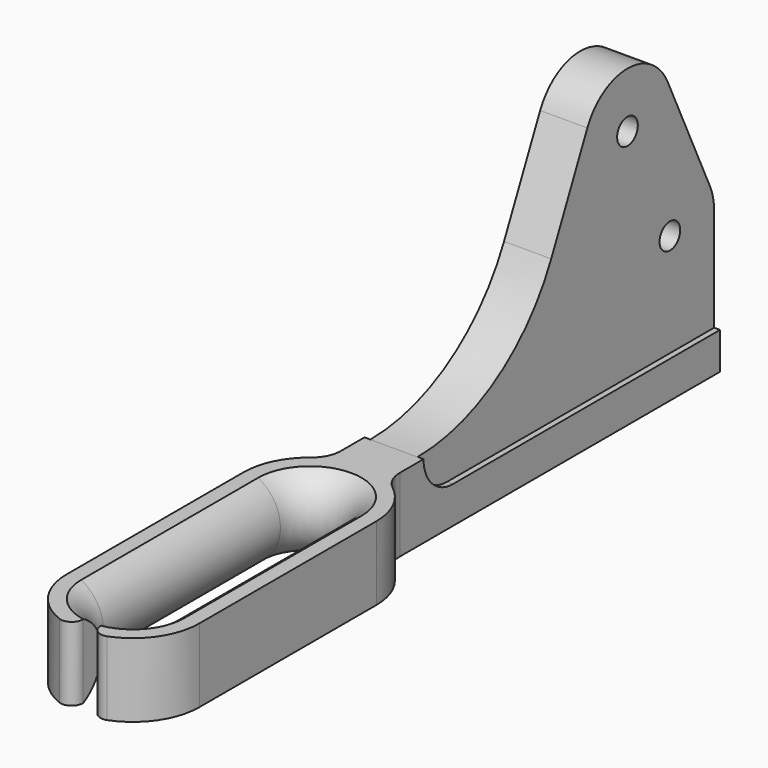
from build123d import *

# Parameters (mm, degrees)
F1_DEPTH       = 45
F3_DEPTH       = 9.001
F3_DEPTH_BACK  = 9.001
F5_DEPTH       = 50.25
F6_R           = 5
F8_D           = 3.5
F11_DEPTH      = 15
F11_DEPTH_BACK = 15
F13_ANGLE      = 180
F15_ANGLE      = 180
F17_DEPTH      = 10
F18_R          = 1.5


with BuildPart() as f1:
    # F0 (on Top) → F1 (new body)
    with BuildSketch(Plane.XY):
        with BuildLine():
            Line((-9, 15), (-9, -15))
            ThreePointArc((-9, -15), (0, -24), (9, -15))
            Line((9, -15), (9, 15))
            ThreePointArc((9, 15), (8.0884533085, 18.9467610869), (5.5384615385, 22.094042838))
            ThreePointArc((5.5384615385, 22.094042838), (4.4051318629, 23.4928347273), (4, 25.246950766))
            Line((4, 25.246950766), (4, 85))
            Line((4, 85), (-4, 85))
            Line((-4, 85), (-4, 25.246950766))
            ThreePointArc((-4, 25.246950766), (-4.4051318629, 23.4928347273), (-5.5384615385, 22.094042838))
            ThreePointArc((-5.5384615385, 22.094042838), (-8.0884533085, 18.9467610869), (-9, 15))
        make_face()
    extrude(amount=F1_DEPTH)

    # F2 (on Right) → F3 (cut, two sides)
    with BuildSketch(Plane.YZ) as f3_sk:
        with BuildLine():
            Line((-27.897214517, 46.3444851339), (-27.897214517, 10))
            Line((-27.897214517, 10), (29.232119265, 10))
            ThreePointArc((29.232119265, 10), (42.6646094737, 13.9152138547), (51.8898139409, 24.4345434565))
            Line((51.8898139409, 24.4345434565), (58.0181811476, 37.5768693427))
            ThreePointArc((58.0181811476, 37.5768693427), (64.8154895504, 41.9072323796), (71.6127979532, 37.5768693427))
            Line((71.6127979532, 37.5768693427), (78.7973084028, 22.1696369631))
            ThreePointArc((78.7973084028, 22.1696369631), (79.3222200534, 20.6232971045), (79.5, 19))
            Line((79.5, 19), (79.5, 0))
            Line((79.5, 0), (96.8408212066, 0))
            Line((96.8408212066, 0), (96.8408212066, 46.3444851339))
            Line((96.8408212066, 46.3444851339), (-27.897214517, 46.3444851339))
        make_face()
    extrude(amount=-F3_DEPTH, mode=Mode.SUBTRACT)
    extrude(f3_sk.sketch, amount=F3_DEPTH_BACK, mode=Mode.SUBTRACT)

    # F4 (on face) → F5 (cut)
    with BuildSketch(Plane(origin=(0, 79.5, 0), x_dir=(-1, 0, 0), z_dir=(0, 1, 0))):
        Polygon((-5, 5), (-3.2, 5), (-3.2, 42.9072323796), (3.2, 42.9072323796), (3.2, 5), (5, 5), (5, 44.9072323796), (-5, 44.9072323796), align=None)
    extrude(amount=-F5_DEPTH, mode=Mode.SUBTRACT)

    # F6
    f6_edges = [f1.edges().sort_by_distance(p)[0] for p in [
        (3.6, 29.25, 5),
        (-3.6, 29.25, 5),
    ]]
    fillet(f6_edges, radius=F6_R)

    # F8 (through all)
    with Locations(Plane.YZ.offset(3.2)):
        with Locations((64.8154895504, 34.4072323796), (72, 19)):
            Hole(F8_D / 2)

    # F10 (on Front) → F11 (cut, two sides)
    with BuildSketch(Plane.XZ) as f11_sk:
        with BuildLine():
            ThreePointArc((7, 0), (4, 5), (7, 10))
            Line((7, 10), (0, 10))
            Line((0, 10), (-7, 10))
            ThreePointArc((-7, 10), (-4, 5), (-7, 0))
            Line((-7, 0), (0, 0))
            Line((0, 0), (7, 0))
        make_face()
    extrude(amount=-F11_DEPTH, mode=Mode.SUBTRACT)
    extrude(f11_sk.sketch, amount=F11_DEPTH_BACK, mode=Mode.SUBTRACT)

    # F12 (on face) → F13 (revolve, cut)
    with BuildSketch(Plane(origin=(0, -15, 0), x_dir=(-1, 0, 0), z_dir=(0, 1, 0))):
        with BuildLine():
            ThreePointArc((7, 0), (4, 5), (7, 10))
            Line((7, 10), (0, 10))
            Line((0, 10), (0, 0))
            Line((0, 0), (7, 0))
        make_face()
    revolve(axis=Axis((0, -15, 0.1769523323), (0, 0, 1)), revolution_arc=F13_ANGLE, mode=Mode.SUBTRACT)

    # F14 (on face) → F15 (revolve, cut)
    with BuildSketch(Plane.XZ.offset(-15)):
        with BuildLine():
            Line((0, 10), (-7, 10))
            ThreePointArc((-7, 10), (-4, 5), (-7, 0))
            Line((-7, 0), (0, 0))
            Line((0, 0), (0, 10))
        make_face()
    revolve(axis=Axis((0, 15, 1.3485458866), (0, 0, -1)), revolution_arc=F15_ANGLE, mode=Mode.SUBTRACT)

    # F16 (on Top) → F17 (cut, through all)
    with BuildSketch(Plane.XY):
        Polygon((0, -17.1658955514), (-1.2, -17.1658955514), (-1.2, -27.9354508966), (0, -27.9354508966), (1.2, -27.9354508966), (1.2, -17.1658955514), align=None)
    extrude(amount=F17_DEPTH, mode=Mode.SUBTRACT)

    # F18
    f18_edges = [f1.edges().sort_by_distance(p)[0] for p in [
        (-1.2, -23.919641, 5),
        (1.2, -23.919641, 5),
    ]]
    fillet(f18_edges, radius=F18_R)


solid = f1.part
